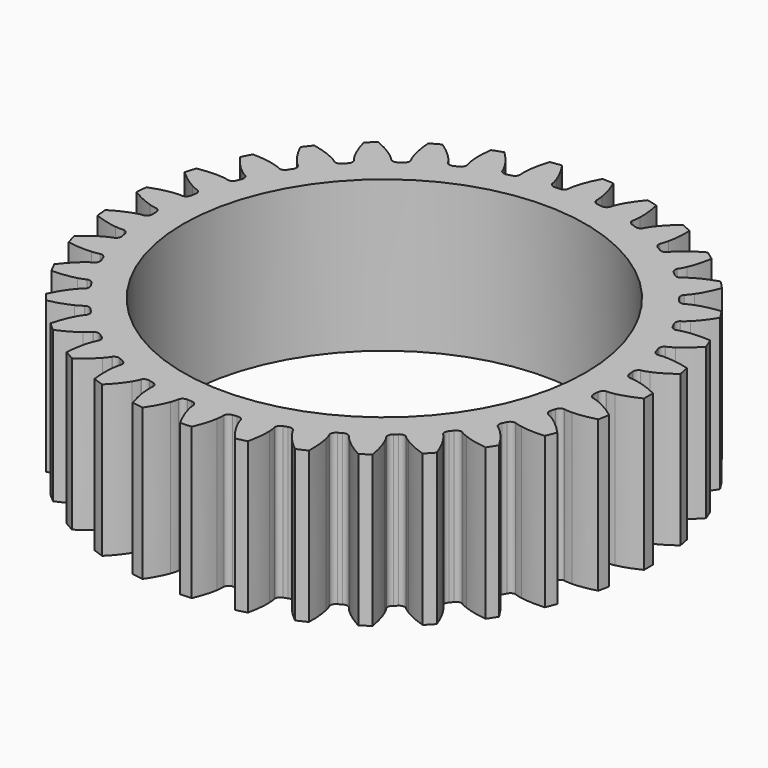
from build123d import *

# Parameters (mm, degrees)
PAD_DEPTH    = 1.5
SKETCH_R     = 2
POCKET_DEPTH = 1.501


with BuildPart() as part:
    # InvoluteGear → Pad (new body)
    with BuildSketch(Plane.XY):
        with BuildLine():
            Line((2.32046, -0.145228), (2.324456, -0.145361))
            add(Edge.make_bspline(
                [(2.324456, -0.145361), (2.333108, -0.145446), (2.359193, -0.144789), (2.402593, -0.135914)],
                knots=[0, 0, 0, 0, 1, 1, 1, 1], degree=3))
            add(Edge.make_bspline(
                [(2.402593, -0.135914), (2.454652, -0.125157), (2.530073, -0.102673), (2.624556, -0.055871)],
                knots=[0, 0, 0, 0, 1, 1, 1, 1], degree=3))
            ThreePointArc((2.624556, -0.055871), (2.625151, 0), (2.624556, 0.055871))
            add(Edge.make_bspline(
                [(2.624556, 0.055871), (2.530073, 0.102673), (2.454652, 0.125157), (2.402593, 0.135914)],
                knots=[0, 0, 0, 0, 1, 1, 1, 1], degree=3))
            add(Edge.make_bspline(
                [(2.402593, 0.135914), (2.359193, 0.144789), (2.333108, 0.145446), (2.324456, 0.145361)],
                knots=[0, 0, 0, 0, 1, 1, 1, 1], degree=3))
            Line((2.324456, 0.145361), (2.32046, 0.145228))
            ThreePointArc((2.32046, 0.145228), (2.291077, 0.164589), (2.278948, 0.197621))
            ThreePointArc((2.278948, 0.197621), (2.277142, 0.217441), (2.275164, 0.237244))
            ThreePointArc((2.275164, 0.237244), (2.280823, 0.271974), (2.306011, 0.296547))
            Line((2.306011, 0.296547), (2.30996, 0.297172))
            add(Edge.make_bspline(
                [(2.30996, 0.297172), (2.318471, 0.298726), (2.343961, 0.304308), (2.384896, 0.321236)],
                knots=[0, 0, 0, 0, 1, 1, 1, 1], degree=3))
            add(Edge.make_bspline(
                [(2.384896, 0.321236), (2.43398, 0.34165), (2.503782, 0.378002), (2.587701, 0.44184)],
                knots=[0, 0, 0, 0, 1, 1, 1, 1], degree=3))
            ThreePointArc((2.587701, 0.44184), (2.577711, 0.496813), (2.566553, 0.551561))
            add(Edge.make_bspline(
                [(2.566553, 0.551561), (2.46492, 0.579637), (2.386607, 0.587442), (2.333453, 0.588151)],
                knots=[0, 0, 0, 0, 1, 1, 1, 1], degree=3))
            add(Edge.make_bspline(
                [(2.333453, 0.588151), (2.289158, 0.588652), (2.263419, 0.584361), (2.25494, 0.582641)],
                knots=[0, 0, 0, 0, 1, 1, 1, 1], degree=3))
            Line((2.25494, 0.582641), (2.251042, 0.581753))
            ThreePointArc((2.251042, 0.581753), (2.218525, 0.595204), (2.200364, 0.625344))
            ThreePointArc((2.200364, 0.625344), (2.19484, 0.644463), (2.18915, 0.663534))
            ThreePointArc((2.18915, 0.663534), (2.188134, 0.698708), (2.208216, 0.727603))
            Line((2.208216, 0.727603), (2.211976, 0.728964))
            add(Edge.make_bspline(
                [(2.211976, 0.728964), (2.220039, 0.732101), (2.244012, 0.742406), (2.281004, 0.766776)],
                knots=[0, 0, 0, 0, 1, 1, 1, 1], degree=3))
            add(Edge.make_bspline(
                [(2.281004, 0.766776), (2.325337, 0.79611), (2.386998, 0.845015), (2.457319, 0.923581)],
                knots=[0, 0, 0, 0, 1, 1, 1, 1], degree=3))
            ThreePointArc((2.457319, 0.923581), (2.437106, 0.97567), (2.415789, 1.027317))
            add(Edge.make_bspline(
                [(2.415789, 1.027317), (2.310679, 1.035651), (2.232304, 1.028494), (2.179976, 1.019131)],
                knots=[0, 0, 0, 0, 1, 1, 1, 1], degree=3))
            add(Edge.make_bspline(
                [(2.179976, 1.019131), (2.136387, 1.011241), (2.111925, 1.002156), (2.103925, 0.998862)],
                knots=[0, 0, 0, 0, 1, 1, 1, 1], degree=3))
            Line((2.103925, 0.998862), (2.100265, 0.997253))
            ThreePointArc((2.100265, 0.997253), (2.065791, 1.004307), (2.042253, 1.030465))
            ThreePointArc((2.042253, 1.030465), (2.033211, 1.048193), (2.024015, 1.065842))
            ThreePointArc((2.024015, 1.065842), (2.01636, 1.100188), (2.030611, 1.132362))
            Line((2.030611, 1.132362), (2.034045, 1.13441))
            add(Edge.make_bspline(
                [(2.034045, 1.13441), (2.041369, 1.139016), (2.062958, 1.153672), (2.09467, 1.184602)],
                knots=[0, 0, 0, 0, 1, 1, 1, 1], degree=3))
            add(Edge.make_bspline(
                [(2.09467, 1.184602), (2.13265, 1.221796), (2.183942, 1.281487), (2.238123, 1.371941)],
                knots=[0, 0, 0, 0, 1, 1, 1, 1], degree=3))
            ThreePointArc((2.238123, 1.371941), (2.208417, 1.419264), (2.177711, 1.465943))
            add(Edge.make_bspline(
                [(2.177711, 1.465943), (2.072923, 1.454234), (1.99732, 1.432374), (1.947709, 1.413277)],
                knots=[0, 0, 0, 0, 1, 1, 1, 1], degree=3))
            add(Edge.make_bspline(
                [(1.947709, 1.413277), (1.906401, 1.39728), (1.884101, 1.38373), (1.876869, 1.378982)],
                knots=[0, 0, 0, 0, 1, 1, 1, 1], degree=3))
            Line((1.876869, 1.378982), (1.873579, 1.376709))
            ThreePointArc((1.873579, 1.376709), (1.838393, 1.377111), (1.810331, 1.398342))
            ThreePointArc((1.810331, 1.398342), (1.798096, 1.414039), (1.785726, 1.429629))
            ThreePointArc((1.785726, 1.429629), (1.77171, 1.461905), (1.779614, 1.496194))
            Line((1.779614, 1.496194), (1.782599, 1.498855))
            add(Edge.make_bspline(
                [(1.782599, 1.498855), (1.788918, 1.504764), (1.807344, 1.523241), (1.832629, 1.559613)],
                knots=[0, 0, 0, 0, 1, 1, 1, 1], degree=3))
            add(Edge.make_bspline(
                [(1.832629, 1.559613), (1.862884, 1.603323), (1.901952, 1.671642), (1.938036, 1.770716)],
                knots=[0, 0, 0, 0, 1, 1, 1, 1], degree=3))
            ThreePointArc((1.938036, 1.770716), (1.899911, 1.811561), (1.860925, 1.851587))
            add(Edge.make_bspline(
                [(1.860925, 1.851587), (1.760247, 1.820258), (1.690147, 1.784485), (1.645047, 1.756344)],
                knots=[0, 0, 0, 0, 1, 1, 1, 1], degree=3))
            add(Edge.make_bspline(
                [(1.645047, 1.756344), (1.607513, 1.732818), (1.58818, 1.715293), (1.581977, 1.709261)],
                knots=[0, 0, 0, 0, 1, 1, 1, 1], degree=3))
            Line((1.581977, 1.709261), (1.579177, 1.706407))
            ThreePointArc((1.579177, 1.706407), (1.544551, 1.700143), (1.512978, 1.715679))
            ThreePointArc((1.512978, 1.715679), (1.497994, 1.728777), (1.482897, 1.741744))
            ThreePointArc((1.482897, 1.741744), (1.463026, 1.770785), (1.464298, 1.80595))
            Line((1.464298, 1.80595), (1.466725, 1.809128))
            add(Edge.make_bspline(
                [(1.466725, 1.809128), (1.471812, 1.816126), (1.486407, 1.837756), (1.504352, 1.878257)],
                knots=[0, 0, 0, 0, 1, 1, 1, 1], degree=3))
            add(Edge.make_bspline(
                [(1.504352, 1.878257), (1.525788, 1.926902), (1.551221, 2.00138), (1.567903, 2.105492)],
                knots=[0, 0, 0, 0, 1, 1, 1, 1], degree=3))
            ThreePointArc((1.567903, 2.105492), (1.522737, 2.138385), (1.476881, 2.170308))
            add(Edge.make_bspline(
                [(1.476881, 2.170308), (1.383951, 2.120492), (1.321888, 2.072099), (1.282929, 2.035932)],
                knots=[0, 0, 0, 0, 1, 1, 1, 1], degree=3))
            add(Edge.make_bspline(
                [(1.282929, 2.035932), (1.250525, 2.005728), (1.234859, 1.98486), (1.229909, 1.977764)],
                knots=[0, 0, 0, 0, 1, 1, 1, 1], degree=3))
            Line((1.229909, 1.977764), (1.2277, 1.974431))
            ThreePointArc((1.2277, 1.974431), (1.194884, 1.961727), (1.160942, 1.971008))
            ThreePointArc((1.160942, 1.971008), (1.14375, 1.981033), (1.126472, 1.990909))
            ThreePointArc((1.126472, 1.990909), (1.101463, 2.015664), (1.096058, 2.050435))
            Line((1.096058, 2.050435), (1.097839, 2.054014))
            add(Edge.make_bspline(
                [(1.097839, 2.054014), (1.10151, 2.061849), (1.111748, 2.08585), (1.121704, 2.129015)],
                knots=[0, 0, 0, 0, 1, 1, 1, 1], degree=3))
            add(Edge.make_bspline(
                [(1.121704, 2.129015), (1.133547, 2.180838), (1.144425, 2.258783), (1.141102, 2.364171)],
                knots=[0, 0, 0, 0, 1, 1, 1, 1], degree=3))
            ThreePointArc((1.141102, 2.364171), (1.090527, 2.387921), (1.039458, 2.41059))
            add(Edge.make_bspline(
                [(1.039458, 2.41059), (0.957636, 2.344087), (0.905852, 2.284823), (0.874442, 2.241936)],
                knots=[0, 0, 0, 0, 1, 1, 1, 1], degree=3))
            add(Edge.make_bspline(
                [(0.874442, 2.241936), (0.84834, 2.206145), (0.836906, 2.18269), (0.833389, 2.174785)],
                knots=[0, 0, 0, 0, 1, 1, 1, 1], degree=3))
            Line((0.833389, 2.174785), (0.83185, 2.171094))
            ThreePointArc((0.83185, 2.171094), (0.802032, 2.15241), (0.766946, 2.155098))
            ThreePointArc((0.766946, 2.155098), (0.748168, 2.161689), (0.729333, 2.168117))
            ThreePointArc((0.729333, 2.168117), (0.700092, 2.187692), (0.688203, 2.220811))
            Line((0.688203, 2.220811), (0.689275, 2.224663))
            add(Edge.make_bspline(
                [(0.689275, 2.224663), (0.691397, 2.233051), (0.696908, 2.258556), (0.698515, 2.302824)],
                knots=[0, 0, 0, 0, 1, 1, 1, 1], degree=3))
            add(Edge.make_bspline(
                [(0.698515, 2.302824), (0.700336, 2.355953), (0.696266, 2.434548), (0.673058, 2.537402)],
                knots=[0, 0, 0, 0, 1, 1, 1, 1], degree=3))
            ThreePointArc((0.673058, 2.537402), (0.618903, 2.551152), (0.564467, 2.563746))
            add(Edge.make_bspline(
                [(0.564467, 2.563746), (0.496709, 2.48296), (0.457077, 2.414967), (0.43435, 2.36691)],
                knots=[0, 0, 0, 0, 1, 1, 1, 1], degree=3))
            add(Edge.make_bspline(
                [(0.43435, 2.36691), (0.415494, 2.326826), (0.408705, 2.301631), (0.406747, 2.293204)],
                knots=[0, 0, 0, 0, 1, 1, 1, 1], degree=3))
            Line((0.406747, 2.293204), (0.405935, 2.289288))
            ThreePointArc((0.405935, 2.289288), (0.380192, 2.265298), (0.345232, 2.261299))
            ThreePointArc((0.345232, 2.261299), (0.325545, 2.264217), (0.305834, 2.266963))
            ThreePointArc((0.305834, 2.266963), (0.273417, 2.28065), (0.255475, 2.310921))
            Line((0.255475, 2.310921), (0.255799, 2.314907))
            add(Edge.make_bspline(
                [(0.255799, 2.314907), (0.256295, 2.323544), (0.256879, 2.349632), (0.25008, 2.393404)],
                knots=[0, 0, 0, 0, 1, 1, 1, 1], degree=3))
            add(Edge.make_bspline(
                [(0.25008, 2.393404), (0.241813, 2.445917), (0.222942, 2.522322), (0.180689, 2.618925)],
                knots=[0, 0, 0, 0, 1, 1, 1, 1], degree=3))
            ThreePointArc((0.180689, 2.618925), (0.12491, 2.622177), (0.069074, 2.624242))
            add(Edge.make_bspline(
                [(0.069074, 2.624242), (0.017829, 2.532092), (-0.008219, 2.457827), (-0.02144, 2.406338)],
                knots=[0, 0, 0, 0, 1, 1, 1, 1], degree=3))
            add(Edge.make_bspline(
                [(-0.02144, 2.406338), (-0.03237, 2.36341), (-0.034267, 2.337386), (-0.034595, 2.32874)],
                knots=[0, 0, 0, 0, 1, 1, 1, 1], degree=3))
            Line((-0.034595, 2.32874), (-0.034651, 2.324742))
            ThreePointArc((-0.034651, 2.324742), (-0.055389, 2.296313), (-0.088961, 2.28577))
            ThreePointArc((-0.088961, 2.28577), (-0.108844, 2.284909), (-0.128718, 2.283876))
            ThreePointArc((-0.128718, 2.283876), (-0.16314, 2.291181), (-0.186486, 2.317509))
            Line((-0.186486, 2.317509), (-0.186923, 2.321484))
            add(Edge.make_bspline(
                [(-0.186923, 2.321484), (-0.18807, 2.330059), (-0.192433, 2.355785), (-0.207394, 2.39748)],
                knots=[0, 0, 0, 0, 1, 1, 1, 1], degree=3))
            add(Edge.make_bspline(
                [(-0.207394, 2.39748), (-0.22545, 2.447479), (-0.258439, 2.518932), (-0.318211, 2.605793)],
                knots=[0, 0, 0, 0, 1, 1, 1, 1], degree=3))
            ThreePointArc((-0.318211, 2.605793), (-0.373598, 2.59843), (-0.428815, 2.589891))
            add(Edge.make_bspline(
                [(-0.428815, 2.589891), (-0.461695, 2.489708), (-0.473217, 2.411856), (-0.476455, 2.358795)],
                knots=[0, 0, 0, 0, 1, 1, 1, 1], degree=3))
            add(Edge.make_bspline(
                [(-0.476455, 2.358795), (-0.479063, 2.314574), (-0.476001, 2.288661), (-0.474686, 2.28011)],
                knots=[0, 0, 0, 0, 1, 1, 1, 1], degree=3))
            Line((-0.474686, 2.28011), (-0.473985, 2.276173))
            ThreePointArc((-0.473985, 2.276173), (-0.488968, 2.244333), (-0.519938, 2.227627))
            ThreePointArc((-0.519938, 2.227627), (-0.539299, 2.223019), (-0.558618, 2.218243))
            ThreePointArc((-0.558618, 2.218243), (-0.593801, 2.218901), (-0.621708, 2.240336))
            Line((-0.621708, 2.240336), (-0.622889, 2.244156))
            add(Edge.make_bspline(
                [(-0.622889, 2.244156), (-0.625638, 2.252359), (-0.634791, 2.276795), (-0.657373, 2.314905)],
                knots=[0, 0, 0, 0, 1, 1, 1, 1], degree=3))
            add(Edge.make_bspline(
                [(-0.657373, 2.314905), (-0.684564, 2.360583), (-0.73048, 2.424502), (-0.80561, 2.498481)],
                knots=[0, 0, 0, 0, 1, 1, 1, 1], degree=3))
            ThreePointArc((-0.80561, 2.498481), (-0.858603, 2.48077), (-0.911206, 2.461934))
            add(Edge.make_bspline(
                [(-0.911206, 2.461934), (-0.924531, 2.35734), (-0.921112, 2.278713), (-0.91425, 2.225999)],
                knots=[0, 0, 0, 0, 1, 1, 1, 1], degree=3))
            add(Edge.make_bspline(
                [(-0.91425, 2.225999), (-0.908442, 2.182084), (-0.900531, 2.157218), (-0.897622, 2.14907)],
                knots=[0, 0, 0, 0, 1, 1, 1, 1], degree=3))
            Line((-0.897622, 2.14907), (-0.896188, 2.145337))
            ThreePointArc((-0.896188, 2.145337), (-0.904875, 2.111238), (-0.932123, 2.088972))
            ThreePointArc((-0.932123, 2.088972), (-0.950262, 2.080783), (-0.968329, 2.072437))
            ThreePointArc((-0.968329, 2.072437), (-1.003, 2.066425), (-1.034459, 2.082191))
            Line((-1.034459, 2.082191), (-1.036341, 2.085719))
            add(Edge.make_bspline(
                [(-1.036341, 2.085719), (-1.040594, 2.093253), (-1.054206, 2.115515), (-1.083592, 2.148663)],
                knots=[0, 0, 0, 0, 1, 1, 1, 1], degree=3))
            add(Edge.make_bspline(
                [(-1.083592, 2.148663), (-1.118937, 2.18837), (-1.176119, 2.242444), (-1.263893, 2.300868)],
                knots=[0, 0, 0, 0, 1, 1, 1, 1], degree=3))
            ThreePointArc((-1.263893, 2.300868), (-1.312575, 2.273447), (-1.360663, 2.244997))
            add(Edge.make_bspline(
                [(-1.360663, 2.244997), (-1.353953, 2.139771), (-1.335716, 2.063213), (-1.319001, 2.012749)],
                knots=[0, 0, 0, 0, 1, 1, 1, 1], degree=3))
            add(Edge.make_bspline(
                [(-1.319001, 2.012749), (-1.304987, 1.970727), (-1.292514, 1.947808), (-1.288115, 1.940357)],
                knots=[0, 0, 0, 0, 1, 1, 1, 1], degree=3))
            Line((-1.288115, 1.940357), (-1.286001, 1.936963))
            ThreePointArc((-1.286001, 1.936963), (-1.288077, 1.901836), (-1.310619, 1.874816))
            ThreePointArc((-1.310619, 1.874816), (-1.32688, 1.863342), (-1.343041, 1.851728))
            ThreePointArc((-1.343041, 1.851728), (-1.375948, 1.839263), (-1.409822, 1.848791))
            Line((-1.409822, 1.848791), (-1.412338, 1.851898))
            add(Edge.make_bspline(
                [(-1.412338, 1.851898), (-1.41794, 1.858492), (-1.435519, 1.877775), (-1.470647, 1.904763)],
                knots=[0, 0, 0, 0, 1, 1, 1, 1], degree=3))
            add(Edge.make_bspline(
                [(-1.470647, 1.904763), (-1.512868, 1.937063), (-1.57925, 1.979338), (-1.676495, 2.020095)],
                knots=[0, 0, 0, 0, 1, 1, 1, 1], degree=3))
            ThreePointArc((-1.676495, 2.020095), (-1.719108, 1.983957), (-1.760943, 1.94692))
            add(Edge.make_bspline(
                [(-1.760943, 1.94692), (-1.73444, 1.844865), (-1.702043, 1.773142), (-1.67608, 1.726754)],
                knots=[0, 0, 0, 0, 1, 1, 1, 1], degree=3))
            add(Edge.make_bspline(
                [(-1.67608, 1.726754), (-1.654367, 1.688143), (-1.637781, 1.667998), (-1.632052, 1.661515)],
                knots=[0, 0, 0, 0, 1, 1, 1, 1], degree=3))
            Line((-1.632052, 1.661515), (-1.629334, 1.658583))
            ThreePointArc((-1.629334, 1.658583), (-1.624725, 1.623697), (-1.641746, 1.592899))
            ThreePointArc((-1.641746, 1.592899), (-1.655542, 1.578556), (-1.669212, 1.564093))
            ThreePointArc((-1.669212, 1.564093), (-1.699166, 1.545626), (-1.734231, 1.54857))
            Line((-1.734231, 1.54857), (-1.73729, 1.551145))
            add(Edge.make_bspline(
                [(-1.73729, 1.551145), (-1.744038, 1.55656), (-1.764949, 1.572168), (-1.804549, 1.59202)],
                knots=[0, 0, 0, 0, 1, 1, 1, 1], degree=3))
            add(Edge.make_bspline(
                [(-1.804549, 1.59202), (-1.85212, 1.615746), (-1.925303, 1.644693), (-2.028504, 1.66631)],
                knots=[0, 0, 0, 0, 1, 1, 1, 1], degree=3))
            ThreePointArc((-2.028504, 1.66631), (-2.063508, 1.622761), (-2.097577, 1.578476))
            add(Edge.make_bspline(
                [(-2.097577, 1.578476), (-2.052239, 1.483281), (-2.006854, 1.418985), (-1.972582, 1.378349)],
                knots=[0, 0, 0, 0, 1, 1, 1, 1], degree=3))
            add(Edge.make_bspline(
                [(-1.972582, 1.378349), (-1.943953, 1.344545), (-1.923855, 1.327903), (-1.917002, 1.322622)],
                knots=[0, 0, 0, 0, 1, 1, 1, 1], degree=3))
            Line((-1.917002, 1.322622), (-1.913779, 1.320256))
            ThreePointArc((-1.913779, 1.320256), (-1.90265, 1.286874), (-1.913535, 1.253411))
            ThreePointArc((-1.913535, 1.253411), (-1.924367, 1.236716), (-1.935054, 1.219927))
            ThreePointArc((-1.935054, 1.219927), (-1.960971, 1.196125), (-1.99596, 1.19238))
            Line((-1.99596, 1.19238), (-1.999451, 1.19433))
            add(Edge.make_bspline(
                [(-1.999451, 1.19433), (-2.007102, 1.198369), (-2.030589, 1.209738), (-2.07323, 1.221736)],
                knots=[0, 0, 0, 0, 1, 1, 1, 1], degree=3))
            add(Edge.make_bspline(
                [(-2.07323, 1.221736), (-2.124432, 1.236031), (-2.201771, 1.250606), (-2.307197, 1.252301)],
                knots=[0, 0, 0, 0, 1, 1, 1, 1], degree=3))
            ThreePointArc((-2.307197, 1.252301), (-2.333327, 1.202914), (-2.3584, 1.152981))
            add(Edge.make_bspline(
                [(-2.3584, 1.152981), (-2.295866, 1.068087), (-2.239132, 1.013542), (-2.197789, 0.980127)],
                knots=[0, 0, 0, 0, 1, 1, 1, 1], degree=3))
            add(Edge.make_bspline(
                [(-2.197789, 0.980127), (-2.16328, 0.952352), (-2.140396, 0.939814), (-2.132668, 0.935925)],
                knots=[0, 0, 0, 0, 1, 1, 1, 1], degree=3))
            Line((-2.132668, 0.935925), (-2.129054, 0.934213))
            ThreePointArc((-2.129054, 0.934213), (-2.11181, 0.903539), (-2.116165, 0.868621))
            ThreePointArc((-2.116165, 0.868621), (-2.123642, 0.850178), (-2.130958, 0.83167))
            ThreePointArc((-2.130958, 0.83167), (-2.151902, 0.803393), (-2.18555, 0.793094))
            Line((-2.18555, 0.793094), (-2.189346, 0.794348))
            add(Edge.make_bspline(
                [(-2.189346, 0.794348), (-2.197623, 0.796867), (-2.222838, 0.803585), (-2.266979, 0.807297)],
                knots=[0, 0, 0, 0, 1, 1, 1, 1], degree=3))
            add(Edge.make_bspline(
                [(-2.266979, 0.807297), (-2.319961, 0.811643), (-2.398661, 0.811318), (-2.502503, 0.79303)],
                knots=[0, 0, 0, 0, 1, 1, 1, 1], degree=3))
            ThreePointArc((-2.502503, 0.79303), (-2.518814, 0.73959), (-2.533984, 0.685815))
            add(Edge.make_bspline(
                [(-2.533984, 0.685815), (-2.456513, 0.61429), (-2.390483, 0.571468), (-2.343562, 0.54648)],
                knots=[0, 0, 0, 0, 1, 1, 1, 1], degree=3))
            add(Edge.make_bspline(
                [(-2.343562, 0.54648), (-2.304421, 0.525738), (-2.279577, 0.517758), (-2.271252, 0.515402)],
                knots=[0, 0, 0, 0, 1, 1, 1, 1], degree=3))
            Line((-2.271252, 0.515402), (-2.26738, 0.514404))
            ThreePointArc((-2.26738, 0.514404), (-2.244642, 0.487549), (-2.242311, 0.452437))
            ThreePointArc((-2.242311, 0.452437), (-2.246162, 0.432912), (-2.249843, 0.413354))
            ThreePointArc((-2.249843, 0.413354), (-2.265057, 0.381625), (-2.296148, 0.365144))
            Line((-2.296148, 0.365144), (-2.300113, 0.365657))
            add(Edge.make_bspline(
                [(-2.300113, 0.365657), (-2.308718, 0.366563), (-2.334747, 0.368388), (-2.378794, 0.363679)],
                knots=[0, 0, 0, 0, 1, 1, 1, 1], degree=3))
            add(Edge.make_bspline(
                [(-2.378794, 0.363679), (-2.431641, 0.35792), (-2.508857, 0.342706), (-2.607361, 0.305097)],
                knots=[0, 0, 0, 0, 1, 1, 1, 1], degree=3))
            ThreePointArc((-2.607361, 0.305097), (-2.613264, 0.249536), (-2.617983, 0.193862))
            add(Edge.make_bspline(
                [(-2.617983, 0.193862), (-2.528376, 0.138291), (-2.455434, 0.108739), (-2.404633, 0.093083)],
                knots=[0, 0, 0, 0, 1, 1, 1, 1], degree=3))
            add(Edge.make_bspline(
                [(-2.404633, 0.093083), (-2.362273, 0.080123), (-2.336369, 0.076989), (-2.327748, 0.07625)],
                knots=[0, 0, 0, 0, 1, 1, 1, 1], degree=3))
            Line((-2.327748, 0.07625), (-2.323757, 0.076004))
            ThreePointArc((-2.323757, 0.076004), (-2.296348, 0.053937), (-2.287413, 0.019901))
            ThreePointArc((-2.287413, 0.019901), (-2.2875, 0), (-2.287413, -0.019901))
            ThreePointArc((-2.287413, -0.019901), (-2.296348, -0.053937), (-2.323757, -0.076004))
            Line((-2.323757, -0.076004), (-2.327748, -0.07625))
            add(Edge.make_bspline(
                [(-2.327748, -0.07625), (-2.336369, -0.076989), (-2.362273, -0.080123), (-2.404633, -0.093083)],
                knots=[0, 0, 0, 0, 1, 1, 1, 1], degree=3))
            add(Edge.make_bspline(
                [(-2.404633, -0.093083), (-2.455434, -0.108739), (-2.528376, -0.138291), (-2.617983, -0.193862)],
                knots=[0, 0, 0, 0, 1, 1, 1, 1], degree=3))
            ThreePointArc((-2.617983, -0.193862), (-2.613264, -0.249536), (-2.607361, -0.305097))
            add(Edge.make_bspline(
                [(-2.607361, -0.305097), (-2.508857, -0.342706), (-2.431641, -0.35792), (-2.378794, -0.363679)],
                knots=[0, 0, 0, 0, 1, 1, 1, 1], degree=3))
            add(Edge.make_bspline(
                [(-2.378794, -0.363679), (-2.334747, -0.368388), (-2.308718, -0.366563), (-2.300113, -0.365657)],
                knots=[0, 0, 0, 0, 1, 1, 1, 1], degree=3))
            Line((-2.300113, -0.365657), (-2.296148, -0.365144))
            ThreePointArc((-2.296148, -0.365144), (-2.265057, -0.381625), (-2.249843, -0.413354))
            ThreePointArc((-2.249843, -0.413354), (-2.246162, -0.432912), (-2.242311, -0.452437))
            ThreePointArc((-2.242311, -0.452437), (-2.244642, -0.487549), (-2.26738, -0.514404))
            Line((-2.26738, -0.514404), (-2.271252, -0.515402))
            add(Edge.make_bspline(
                [(-2.271252, -0.515402), (-2.279577, -0.517758), (-2.304421, -0.525738), (-2.343562, -0.54648)],
                knots=[0, 0, 0, 0, 1, 1, 1, 1], degree=3))
            add(Edge.make_bspline(
                [(-2.343562, -0.54648), (-2.390483, -0.571468), (-2.456513, -0.61429), (-2.533984, -0.685815)],
                knots=[0, 0, 0, 0, 1, 1, 1, 1], degree=3))
            ThreePointArc((-2.533984, -0.685815), (-2.518814, -0.73959), (-2.502503, -0.79303))
            add(Edge.make_bspline(
                [(-2.502503, -0.79303), (-2.398661, -0.811318), (-2.319961, -0.811643), (-2.266979, -0.807297)],
                knots=[0, 0, 0, 0, 1, 1, 1, 1], degree=3))
            add(Edge.make_bspline(
                [(-2.266979, -0.807297), (-2.222838, -0.803585), (-2.197623, -0.796867), (-2.189346, -0.794348)],
                knots=[0, 0, 0, 0, 1, 1, 1, 1], degree=3))
            Line((-2.189346, -0.794348), (-2.18555, -0.793094))
            ThreePointArc((-2.18555, -0.793094), (-2.151902, -0.803393), (-2.130958, -0.83167))
            ThreePointArc((-2.130958, -0.83167), (-2.123642, -0.850178), (-2.116165, -0.868621))
            ThreePointArc((-2.116165, -0.868621), (-2.11181, -0.903539), (-2.129054, -0.934213))
            Line((-2.129054, -0.934213), (-2.132668, -0.935925))
            add(Edge.make_bspline(
                [(-2.132668, -0.935925), (-2.140396, -0.939814), (-2.16328, -0.952352), (-2.197789, -0.980127)],
                knots=[0, 0, 0, 0, 1, 1, 1, 1], degree=3))
            add(Edge.make_bspline(
                [(-2.197789, -0.980127), (-2.239132, -1.013542), (-2.295866, -1.068087), (-2.3584, -1.152981)],
                knots=[0, 0, 0, 0, 1, 1, 1, 1], degree=3))
            ThreePointArc((-2.3584, -1.152981), (-2.333327, -1.202914), (-2.307197, -1.252301))
            add(Edge.make_bspline(
                [(-2.307197, -1.252301), (-2.201771, -1.250606), (-2.124432, -1.236031), (-2.07323, -1.221736)],
                knots=[0, 0, 0, 0, 1, 1, 1, 1], degree=3))
            add(Edge.make_bspline(
                [(-2.07323, -1.221736), (-2.030589, -1.209738), (-2.007102, -1.198369), (-1.999451, -1.19433)],
                knots=[0, 0, 0, 0, 1, 1, 1, 1], degree=3))
            Line((-1.999451, -1.19433), (-1.99596, -1.19238))
            ThreePointArc((-1.99596, -1.19238), (-1.960971, -1.196125), (-1.935054, -1.219927))
            ThreePointArc((-1.935054, -1.219927), (-1.924367, -1.236716), (-1.913535, -1.253411))
            ThreePointArc((-1.913535, -1.253411), (-1.90265, -1.286874), (-1.913779, -1.320256))
            Line((-1.913779, -1.320256), (-1.917002, -1.322622))
            add(Edge.make_bspline(
                [(-1.917002, -1.322622), (-1.923855, -1.327903), (-1.943953, -1.344545), (-1.972582, -1.378349)],
                knots=[0, 0, 0, 0, 1, 1, 1, 1], degree=3))
            add(Edge.make_bspline(
                [(-1.972582, -1.378349), (-2.006854, -1.418985), (-2.052239, -1.483281), (-2.097577, -1.578476)],
                knots=[0, 0, 0, 0, 1, 1, 1, 1], degree=3))
            ThreePointArc((-2.097577, -1.578476), (-2.063508, -1.622761), (-2.028504, -1.66631))
            add(Edge.make_bspline(
                [(-2.028504, -1.66631), (-1.925303, -1.644693), (-1.85212, -1.615746), (-1.804549, -1.59202)],
                knots=[0, 0, 0, 0, 1, 1, 1, 1], degree=3))
            add(Edge.make_bspline(
                [(-1.804549, -1.59202), (-1.764949, -1.572168), (-1.744038, -1.55656), (-1.73729, -1.551145)],
                knots=[0, 0, 0, 0, 1, 1, 1, 1], degree=3))
            Line((-1.73729, -1.551145), (-1.734231, -1.54857))
            ThreePointArc((-1.734231, -1.54857), (-1.699166, -1.545626), (-1.669212, -1.564093))
            ThreePointArc((-1.669212, -1.564093), (-1.655542, -1.578556), (-1.641746, -1.592899))
            ThreePointArc((-1.641746, -1.592899), (-1.624725, -1.623697), (-1.629334, -1.658583))
            Line((-1.629334, -1.658583), (-1.632052, -1.661515))
            add(Edge.make_bspline(
                [(-1.632052, -1.661515), (-1.637781, -1.667998), (-1.654367, -1.688143), (-1.67608, -1.726754)],
                knots=[0, 0, 0, 0, 1, 1, 1, 1], degree=3))
            add(Edge.make_bspline(
                [(-1.67608, -1.726754), (-1.702043, -1.773142), (-1.73444, -1.844865), (-1.760943, -1.94692)],
                knots=[0, 0, 0, 0, 1, 1, 1, 1], degree=3))
            ThreePointArc((-1.760943, -1.94692), (-1.719108, -1.983957), (-1.676495, -2.020095))
            add(Edge.make_bspline(
                [(-1.676495, -2.020095), (-1.57925, -1.979338), (-1.512868, -1.937063), (-1.470647, -1.904763)],
                knots=[0, 0, 0, 0, 1, 1, 1, 1], degree=3))
            add(Edge.make_bspline(
                [(-1.470647, -1.904763), (-1.435519, -1.877775), (-1.41794, -1.858492), (-1.412338, -1.851898)],
                knots=[0, 0, 0, 0, 1, 1, 1, 1], degree=3))
            Line((-1.412338, -1.851898), (-1.409822, -1.848791))
            ThreePointArc((-1.409822, -1.848791), (-1.375948, -1.839263), (-1.343041, -1.851728))
            ThreePointArc((-1.343041, -1.851728), (-1.32688, -1.863342), (-1.310619, -1.874816))
            ThreePointArc((-1.310619, -1.874816), (-1.288077, -1.901836), (-1.286001, -1.936963))
            Line((-1.286001, -1.936963), (-1.288115, -1.940357))
            add(Edge.make_bspline(
                [(-1.288115, -1.940357), (-1.292514, -1.947808), (-1.304987, -1.970727), (-1.319001, -2.012749)],
                knots=[0, 0, 0, 0, 1, 1, 1, 1], degree=3))
            add(Edge.make_bspline(
                [(-1.319001, -2.012749), (-1.335716, -2.063213), (-1.353953, -2.139771), (-1.360663, -2.244997)],
                knots=[0, 0, 0, 0, 1, 1, 1, 1], degree=3))
            ThreePointArc((-1.360663, -2.244997), (-1.312575, -2.273447), (-1.263893, -2.300868))
            add(Edge.make_bspline(
                [(-1.263893, -2.300868), (-1.176119, -2.242444), (-1.118937, -2.18837), (-1.083592, -2.148663)],
                knots=[0, 0, 0, 0, 1, 1, 1, 1], degree=3))
            add(Edge.make_bspline(
                [(-1.083592, -2.148663), (-1.054206, -2.115515), (-1.040594, -2.093253), (-1.036341, -2.085719)],
                knots=[0, 0, 0, 0, 1, 1, 1, 1], degree=3))
            Line((-1.036341, -2.085719), (-1.034459, -2.082191))
            ThreePointArc((-1.034459, -2.082191), (-1.003, -2.066425), (-0.968329, -2.072437))
            ThreePointArc((-0.968329, -2.072437), (-0.950262, -2.080783), (-0.932123, -2.088972))
            ThreePointArc((-0.932123, -2.088972), (-0.904875, -2.111238), (-0.896188, -2.145337))
            Line((-0.896188, -2.145337), (-0.897622, -2.14907))
            add(Edge.make_bspline(
                [(-0.897622, -2.14907), (-0.900531, -2.157218), (-0.908442, -2.182084), (-0.91425, -2.225999)],
                knots=[0, 0, 0, 0, 1, 1, 1, 1], degree=3))
            add(Edge.make_bspline(
                [(-0.91425, -2.225999), (-0.921112, -2.278713), (-0.924531, -2.35734), (-0.911206, -2.461934)],
                knots=[0, 0, 0, 0, 1, 1, 1, 1], degree=3))
            ThreePointArc((-0.911206, -2.461934), (-0.858603, -2.48077), (-0.80561, -2.498481))
            add(Edge.make_bspline(
                [(-0.80561, -2.498481), (-0.73048, -2.424502), (-0.684564, -2.360583), (-0.657373, -2.314905)],
                knots=[0, 0, 0, 0, 1, 1, 1, 1], degree=3))
            add(Edge.make_bspline(
                [(-0.657373, -2.314905), (-0.634791, -2.276795), (-0.625638, -2.252359), (-0.622889, -2.244156)],
                knots=[0, 0, 0, 0, 1, 1, 1, 1], degree=3))
            Line((-0.622889, -2.244156), (-0.621708, -2.240336))
            ThreePointArc((-0.621708, -2.240336), (-0.593801, -2.218901), (-0.558618, -2.218243))
            ThreePointArc((-0.558618, -2.218243), (-0.539299, -2.223019), (-0.519938, -2.227627))
            ThreePointArc((-0.519938, -2.227627), (-0.488968, -2.244333), (-0.473985, -2.276173))
            Line((-0.473985, -2.276173), (-0.474686, -2.28011))
            add(Edge.make_bspline(
                [(-0.474686, -2.28011), (-0.476001, -2.288661), (-0.479063, -2.314574), (-0.476455, -2.358795)],
                knots=[0, 0, 0, 0, 1, 1, 1, 1], degree=3))
            add(Edge.make_bspline(
                [(-0.476455, -2.358795), (-0.473217, -2.411856), (-0.461695, -2.489708), (-0.428815, -2.589891)],
                knots=[0, 0, 0, 0, 1, 1, 1, 1], degree=3))
            ThreePointArc((-0.428815, -2.589891), (-0.373598, -2.59843), (-0.318211, -2.605793))
            add(Edge.make_bspline(
                [(-0.318211, -2.605793), (-0.258439, -2.518932), (-0.22545, -2.447479), (-0.207394, -2.39748)],
                knots=[0, 0, 0, 0, 1, 1, 1, 1], degree=3))
            add(Edge.make_bspline(
                [(-0.207394, -2.39748), (-0.192433, -2.355785), (-0.18807, -2.330059), (-0.186923, -2.321484)],
                knots=[0, 0, 0, 0, 1, 1, 1, 1], degree=3))
            Line((-0.186923, -2.321484), (-0.186486, -2.317509))
            ThreePointArc((-0.186486, -2.317509), (-0.16314, -2.291181), (-0.128718, -2.283876))
            ThreePointArc((-0.128718, -2.283876), (-0.108844, -2.284909), (-0.088961, -2.28577))
            ThreePointArc((-0.088961, -2.28577), (-0.055389, -2.296313), (-0.034651, -2.324742))
            Line((-0.034651, -2.324742), (-0.034595, -2.32874))
            add(Edge.make_bspline(
                [(-0.034595, -2.32874), (-0.034267, -2.337386), (-0.03237, -2.36341), (-0.02144, -2.406338)],
                knots=[0, 0, 0, 0, 1, 1, 1, 1], degree=3))
            add(Edge.make_bspline(
                [(-0.02144, -2.406338), (-0.008219, -2.457827), (0.017829, -2.532092), (0.069074, -2.624242)],
                knots=[0, 0, 0, 0, 1, 1, 1, 1], degree=3))
            ThreePointArc((0.069074, -2.624242), (0.12491, -2.622177), (0.180689, -2.618925))
            add(Edge.make_bspline(
                [(0.180689, -2.618925), (0.222942, -2.522322), (0.241813, -2.445917), (0.25008, -2.393404)],
                knots=[0, 0, 0, 0, 1, 1, 1, 1], degree=3))
            add(Edge.make_bspline(
                [(0.25008, -2.393404), (0.256879, -2.349632), (0.256295, -2.323544), (0.255799, -2.314907)],
                knots=[0, 0, 0, 0, 1, 1, 1, 1], degree=3))
            Line((0.255799, -2.314907), (0.255475, -2.310921))
            ThreePointArc((0.255475, -2.310921), (0.273417, -2.28065), (0.305834, -2.266963))
            ThreePointArc((0.305834, -2.266963), (0.325545, -2.264217), (0.345232, -2.261299))
            ThreePointArc((0.345232, -2.261299), (0.380192, -2.265298), (0.405935, -2.289288))
            Line((0.405935, -2.289288), (0.406747, -2.293204))
            add(Edge.make_bspline(
                [(0.406747, -2.293204), (0.408705, -2.301631), (0.415494, -2.326826), (0.43435, -2.36691)],
                knots=[0, 0, 0, 0, 1, 1, 1, 1], degree=3))
            add(Edge.make_bspline(
                [(0.43435, -2.36691), (0.457077, -2.414967), (0.496709, -2.48296), (0.564467, -2.563746)],
                knots=[0, 0, 0, 0, 1, 1, 1, 1], degree=3))
            ThreePointArc((0.564467, -2.563746), (0.618903, -2.551152), (0.673058, -2.537402))
            add(Edge.make_bspline(
                [(0.673058, -2.537402), (0.696266, -2.434548), (0.700336, -2.355953), (0.698515, -2.302824)],
                knots=[0, 0, 0, 0, 1, 1, 1, 1], degree=3))
            add(Edge.make_bspline(
                [(0.698515, -2.302824), (0.696908, -2.258556), (0.691397, -2.233051), (0.689275, -2.224663)],
                knots=[0, 0, 0, 0, 1, 1, 1, 1], degree=3))
            Line((0.689275, -2.224663), (0.688203, -2.220811))
            ThreePointArc((0.688203, -2.220811), (0.700092, -2.187692), (0.729333, -2.168117))
            ThreePointArc((0.729333, -2.168117), (0.748168, -2.161689), (0.766946, -2.155098))
            ThreePointArc((0.766946, -2.155098), (0.802032, -2.15241), (0.83185, -2.171094))
            Line((0.83185, -2.171094), (0.833389, -2.174785))
            add(Edge.make_bspline(
                [(0.833389, -2.174785), (0.836906, -2.18269), (0.84834, -2.206145), (0.874442, -2.241936)],
                knots=[0, 0, 0, 0, 1, 1, 1, 1], degree=3))
            add(Edge.make_bspline(
                [(0.874442, -2.241936), (0.905852, -2.284823), (0.957636, -2.344087), (1.039458, -2.41059)],
                knots=[0, 0, 0, 0, 1, 1, 1, 1], degree=3))
            ThreePointArc((1.039458, -2.41059), (1.090527, -2.387921), (1.141102, -2.364171))
            add(Edge.make_bspline(
                [(1.141102, -2.364171), (1.144425, -2.258783), (1.133547, -2.180838), (1.121704, -2.129015)],
                knots=[0, 0, 0, 0, 1, 1, 1, 1], degree=3))
            add(Edge.make_bspline(
                [(1.121704, -2.129015), (1.111748, -2.08585), (1.10151, -2.061849), (1.097839, -2.054014)],
                knots=[0, 0, 0, 0, 1, 1, 1, 1], degree=3))
            Line((1.097839, -2.054014), (1.096058, -2.050435))
            ThreePointArc((1.096058, -2.050435), (1.101463, -2.015664), (1.126472, -1.990909))
            ThreePointArc((1.126472, -1.990909), (1.14375, -1.981033), (1.160942, -1.971008))
            ThreePointArc((1.160942, -1.971008), (1.194884, -1.961727), (1.2277, -1.974431))
            Line((1.2277, -1.974431), (1.229909, -1.977764))
            add(Edge.make_bspline(
                [(1.229909, -1.977764), (1.234859, -1.98486), (1.250525, -2.005728), (1.282929, -2.035932)],
                knots=[0, 0, 0, 0, 1, 1, 1, 1], degree=3))
            add(Edge.make_bspline(
                [(1.282929, -2.035932), (1.321888, -2.072099), (1.383951, -2.120492), (1.476881, -2.170308)],
                knots=[0, 0, 0, 0, 1, 1, 1, 1], degree=3))
            ThreePointArc((1.476881, -2.170308), (1.522737, -2.138385), (1.567903, -2.105492))
            add(Edge.make_bspline(
                [(1.567903, -2.105492), (1.551221, -2.00138), (1.525788, -1.926902), (1.504352, -1.878257)],
                knots=[0, 0, 0, 0, 1, 1, 1, 1], degree=3))
            add(Edge.make_bspline(
                [(1.504352, -1.878257), (1.486407, -1.837756), (1.471812, -1.816126), (1.466725, -1.809128)],
                knots=[0, 0, 0, 0, 1, 1, 1, 1], degree=3))
            Line((1.466725, -1.809128), (1.464298, -1.80595))
            ThreePointArc((1.464298, -1.80595), (1.463026, -1.770785), (1.482897, -1.741744))
            ThreePointArc((1.482897, -1.741744), (1.497994, -1.728777), (1.512978, -1.715679))
            ThreePointArc((1.512978, -1.715679), (1.544551, -1.700143), (1.579177, -1.706407))
            Line((1.579177, -1.706407), (1.581977, -1.709261))
            add(Edge.make_bspline(
                [(1.581977, -1.709261), (1.58818, -1.715293), (1.607513, -1.732818), (1.645047, -1.756344)],
                knots=[0, 0, 0, 0, 1, 1, 1, 1], degree=3))
            add(Edge.make_bspline(
                [(1.645047, -1.756344), (1.690147, -1.784485), (1.760247, -1.820258), (1.860925, -1.851587)],
                knots=[0, 0, 0, 0, 1, 1, 1, 1], degree=3))
            ThreePointArc((1.860925, -1.851587), (1.899911, -1.811561), (1.938036, -1.770716))
            add(Edge.make_bspline(
                [(1.938036, -1.770716), (1.901952, -1.671642), (1.862884, -1.603323), (1.832629, -1.559613)],
                knots=[0, 0, 0, 0, 1, 1, 1, 1], degree=3))
            add(Edge.make_bspline(
                [(1.832629, -1.559613), (1.807344, -1.523241), (1.788918, -1.504764), (1.782599, -1.498855)],
                knots=[0, 0, 0, 0, 1, 1, 1, 1], degree=3))
            Line((1.782599, -1.498855), (1.779614, -1.496194))
            ThreePointArc((1.779614, -1.496194), (1.77171, -1.461905), (1.785726, -1.429629))
            ThreePointArc((1.785726, -1.429629), (1.798096, -1.414039), (1.810331, -1.398342))
            ThreePointArc((1.810331, -1.398342), (1.838393, -1.377111), (1.873579, -1.376709))
            Line((1.873579, -1.376709), (1.876869, -1.378982))
            add(Edge.make_bspline(
                [(1.876869, -1.378982), (1.884101, -1.38373), (1.906401, -1.39728), (1.947709, -1.413277)],
                knots=[0, 0, 0, 0, 1, 1, 1, 1], degree=3))
            add(Edge.make_bspline(
                [(1.947709, -1.413277), (1.99732, -1.432374), (2.072923, -1.454234), (2.177711, -1.465943)],
                knots=[0, 0, 0, 0, 1, 1, 1, 1], degree=3))
            ThreePointArc((2.177711, -1.465943), (2.208417, -1.419264), (2.238123, -1.371941))
            add(Edge.make_bspline(
                [(2.238123, -1.371941), (2.183942, -1.281487), (2.13265, -1.221796), (2.09467, -1.184602)],
                knots=[0, 0, 0, 0, 1, 1, 1, 1], degree=3))
            add(Edge.make_bspline(
                [(2.09467, -1.184602), (2.062958, -1.153672), (2.041369, -1.139016), (2.034045, -1.13441)],
                knots=[0, 0, 0, 0, 1, 1, 1, 1], degree=3))
            Line((2.034045, -1.13441), (2.030611, -1.132362))
            ThreePointArc((2.030611, -1.132362), (2.01636, -1.100188), (2.024015, -1.065842))
            ThreePointArc((2.024015, -1.065842), (2.033211, -1.048193), (2.042253, -1.030465))
            ThreePointArc((2.042253, -1.030465), (2.065791, -1.004307), (2.100265, -0.997253))
            Line((2.100265, -0.997253), (2.103925, -0.998862))
            add(Edge.make_bspline(
                [(2.103925, -0.998862), (2.111925, -1.002156), (2.136387, -1.011241), (2.179976, -1.019131)],
                knots=[0, 0, 0, 0, 1, 1, 1, 1], degree=3))
            add(Edge.make_bspline(
                [(2.179976, -1.019131), (2.232304, -1.028494), (2.310679, -1.035651), (2.415789, -1.027317)],
                knots=[0, 0, 0, 0, 1, 1, 1, 1], degree=3))
            ThreePointArc((2.415789, -1.027317), (2.437106, -0.97567), (2.457319, -0.923581))
            add(Edge.make_bspline(
                [(2.457319, -0.923581), (2.386998, -0.845015), (2.325337, -0.79611), (2.281004, -0.766776)],
                knots=[0, 0, 0, 0, 1, 1, 1, 1], degree=3))
            add(Edge.make_bspline(
                [(2.281004, -0.766776), (2.244012, -0.742406), (2.220039, -0.732101), (2.211976, -0.728964)],
                knots=[0, 0, 0, 0, 1, 1, 1, 1], degree=3))
            Line((2.211976, -0.728964), (2.208216, -0.727603))
            ThreePointArc((2.208216, -0.727603), (2.188134, -0.698708), (2.18915, -0.663534))
            ThreePointArc((2.18915, -0.663534), (2.19484, -0.644463), (2.200364, -0.625344))
            ThreePointArc((2.200364, -0.625344), (2.218525, -0.595204), (2.251042, -0.581753))
            Line((2.251042, -0.581753), (2.25494, -0.582641))
            add(Edge.make_bspline(
                [(2.25494, -0.582641), (2.263419, -0.584361), (2.289158, -0.588652), (2.333453, -0.588151)],
                knots=[0, 0, 0, 0, 1, 1, 1, 1], degree=3))
            add(Edge.make_bspline(
                [(2.333453, -0.588151), (2.386607, -0.587442), (2.46492, -0.579637), (2.566553, -0.551561)],
                knots=[0, 0, 0, 0, 1, 1, 1, 1], degree=3))
            ThreePointArc((2.566553, -0.551561), (2.577711, -0.496813), (2.587701, -0.44184))
            add(Edge.make_bspline(
                [(2.587701, -0.44184), (2.503782, -0.378002), (2.43398, -0.34165), (2.384896, -0.321236)],
                knots=[0, 0, 0, 0, 1, 1, 1, 1], degree=3))
            add(Edge.make_bspline(
                [(2.384896, -0.321236), (2.343961, -0.304308), (2.318471, -0.298726), (2.30996, -0.297172)],
                knots=[0, 0, 0, 0, 1, 1, 1, 1], degree=3))
            Line((2.30996, -0.297172), (2.306011, -0.296547))
            ThreePointArc((2.306011, -0.296547), (2.280823, -0.271974), (2.275164, -0.237244))
            ThreePointArc((2.275164, -0.237244), (2.277142, -0.217441), (2.278948, -0.197621))
            ThreePointArc((2.278948, -0.197621), (2.291077, -0.164589), (2.32046, -0.145228))
        make_face()
    extrude(amount=PAD_DEPTH)

    # Sketch → Pocket (cut, through all)
    with BuildSketch(Plane.XY):
        Circle(SKETCH_R)
    extrude(amount=POCKET_DEPTH, mode=Mode.SUBTRACT)


solid = part.part
